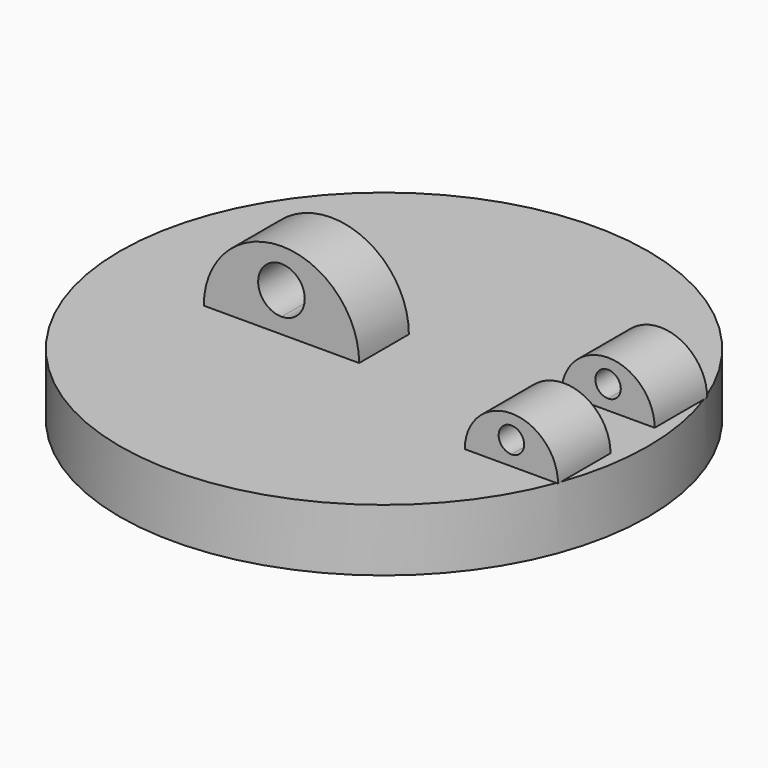
from build123d import *

# Parameters (mm, degrees)
F0_R          = 85
F1_DEPTH      = 20
F3_DEPTH      = 10
F3_DEPTH_BACK = 10
F5_DEPTH      = 30
F5_DEPTH_BACK = 30
F7_DEPTH      = 25


with BuildPart() as f1:
    # F0 (on Top) → F1 (new body)
    with BuildSketch(Plane.XY):
        Circle(F0_R)
    extrude(amount=-F1_DEPTH)

    # F2 (on Front) → F3 (join, two sides)
    with BuildSketch(Plane.XZ) as f3_sk:
        with BuildLine():
            ThreePointArc((-17.5, 12.5), (-30.303301, 17.803301), (-25, 5))
            ThreePointArc((-25, 5), (-19.696699, 7.196699), (-17.5, 12.5))
        make_face()
        with BuildLine():
            Line((-25, 0), (0, 0))
            ThreePointArc((0, 0), (-25, 25), (-50, 0))
            Line((-50, 0), (-25, 0))
        make_face()
        with BuildLine():
            ThreePointArc((-17.5, 12.5), (-19.696699, 7.196699), (-25, 5))
            ThreePointArc((-25, 5), (-30.303301, 17.803301), (-17.5, 12.5))
        make_face(mode=Mode.SUBTRACT)
    extrude(amount=F3_DEPTH)
    extrude(f3_sk.sketch, amount=-F3_DEPTH_BACK)

    # F4 (on Front) → F5 (join, two sides)
    with BuildSketch(Plane.XZ) as f5_sk:
        with BuildLine():
            ThreePointArc((69.1, 7.5), (62.100862, 10.399138), (65, 3.4))
            ThreePointArc((65, 3.4), (67.899138, 4.600862), (69.1, 7.5))
        make_face()
        with BuildLine():
            ThreePointArc((80, 0), (65, 15), (50, 0))
            Line((50, 0), (65, 0))
            Line((65, 0), (80, 0))
        make_face()
        with BuildLine():
            ThreePointArc((69.1, 7.5), (67.899138, 4.600862), (65, 3.4))
            ThreePointArc((65, 3.4), (62.100862, 10.399138), (69.1, 7.5))
        make_face(mode=Mode.SUBTRACT)
    extrude(amount=F5_DEPTH)
    extrude(f5_sk.sketch, amount=-F5_DEPTH_BACK)

    # F6 (on Top) → F7 (cut)
    with BuildSketch(Plane.XY):
        Polygon((0, 8.88), (0, 0), (0, -8.88), (150, -8.88), (150, 8.88), align=None)
    extrude(amount=F7_DEPTH, mode=Mode.SUBTRACT)


solid = f1.part
